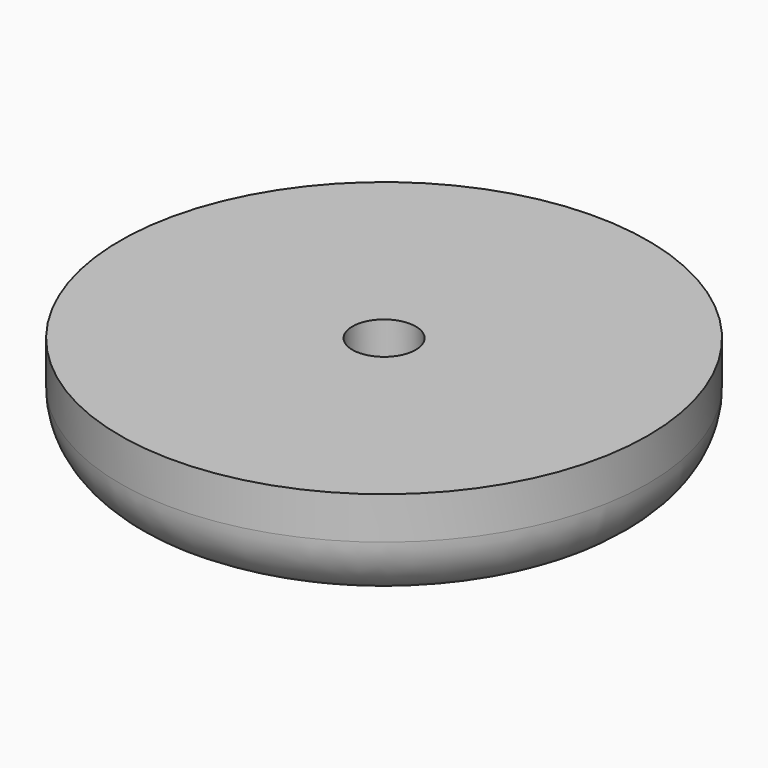
from build123d import *

# Parameters (mm, degrees)
F5_R           = 12.5
F6_DEPTH       = 5
F7_D           = 3
F7_CBORE_D     = 7
F7_CBORE_DEPTH = 3
F8_R           = 3


with BuildPart() as f6:
    # F5 (on Top) → F6 (new body)
    with BuildSketch(Plane.XY):
        Circle(F5_R)
    extrude(amount=F6_DEPTH)

    # F7 (through all)
    with Locations(Plane(origin=(0, 0, 0), x_dir=(1, 0, 0), z_dir=(0, 0, -1))):
        with Locations((0, 0)):
            CounterBoreHole(F7_D / 2, F7_CBORE_D / 2, F7_CBORE_DEPTH)

    # F8
    f8_edges = [f6.edges().sort_by_distance(p)[0] for p in [
        (-12.5, 0, 0),
    ]]
    fillet(f8_edges, radius=F8_R)


solid = f6.part
